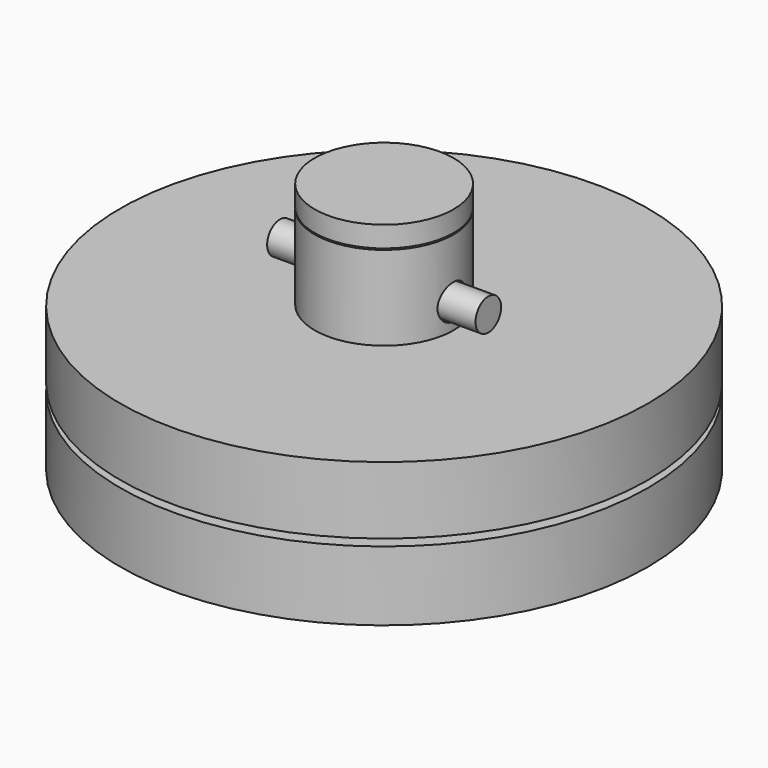
from build123d import *

# Parameters (mm, degrees)
SKETCH003_R  = 2.5
POCKET_DEPTH = 50
SKETCH004_R  = 2.3
PAD_DEPTH    = 15


with BuildPart() as body:
    # Sketch → Revolution (revolve)
    with BuildSketch(Plane.XZ):
        with BuildLine():
            ThreePointArc((30, 0), (15.323223, 4.679338), (0, 6.261365))
            Line((0, 6.261365), (0, -6))
            Line((0, -6), (38, -6))
            Line((38, -6), (38, 4))
            Line((33, 4), (38, 4))
            Line((33, 0), (33, 4))
            Line((30, 0), (33, 0))
        make_face()
    revolve(axis=Axis((0, 0, 0), (0, 0, 1)))


with BuildPart() as body001:
    # Sketch001 → Revolution001 (revolve)
    with BuildSketch(Plane.XZ):
        with BuildLine():
            ThreePointArc((32.8, 0), (20.981494, 7.646721), (7.5, 11.696255))
            Line((7.5, 11.696255), (7.5, 14.696255))
            Line((7.5, 14.696255), (38, 14.696255))
            Line((38, 14.696255), (38, 5))
            Line((36, 5), (38, 5))
            Line((36, 4), (36, 5))
            Line((32.8, 4), (36, 4))
            Line((32.8, 0), (32.8, 4))
        make_face()
    revolve(axis=Axis((0, 0, 0), (0, 0, 1)))


with BuildPart() as body002:
    # Sketch002 → Revolution002 (revolve)
    with BuildSketch(Plane.XZ):
        Polygon((6, 27), (6, 12), (7.3, 12), (7.3, 14.86637), (10, 14.86637), (10, 27), align=None)
    revolve(axis=Axis((0, 0, 0), (0, 0, 1)))

    # Sketch003 (on DatumPlane) → Pocket (cut)
    with BuildSketch(Plane(origin=(10, 0, 27), x_dir=(0, 0, -1), z_dir=(1, 0, 0))):
        with Locations((8.5, 0)):
            Circle(SKETCH003_R)
    extrude(amount=-POCKET_DEPTH, mode=Mode.SUBTRACT)


with BuildPart() as body003:
    # Sketch004 → Pad (new body, symmetric)
    with BuildSketch(Plane.YZ):
        with Locations((0, 18.5)):
            Circle(SKETCH004_R)
    extrude(amount=PAD_DEPTH, both=True)


with BuildPart() as body004:
    # Sketch005 → Revolution003 (revolve)
    with BuildSketch(Plane.XZ):
        Polygon((0, 26.2), (0, 30.2), (10, 30.2), (10, 27.2), (5.8, 27.2), (5.8, 26.2), align=None)
    revolve(axis=Axis((0, 0, 0), (0, 0, 1)))


solid = Compound([body.part, body001.part, body002.part, body003.part, body004.part])
